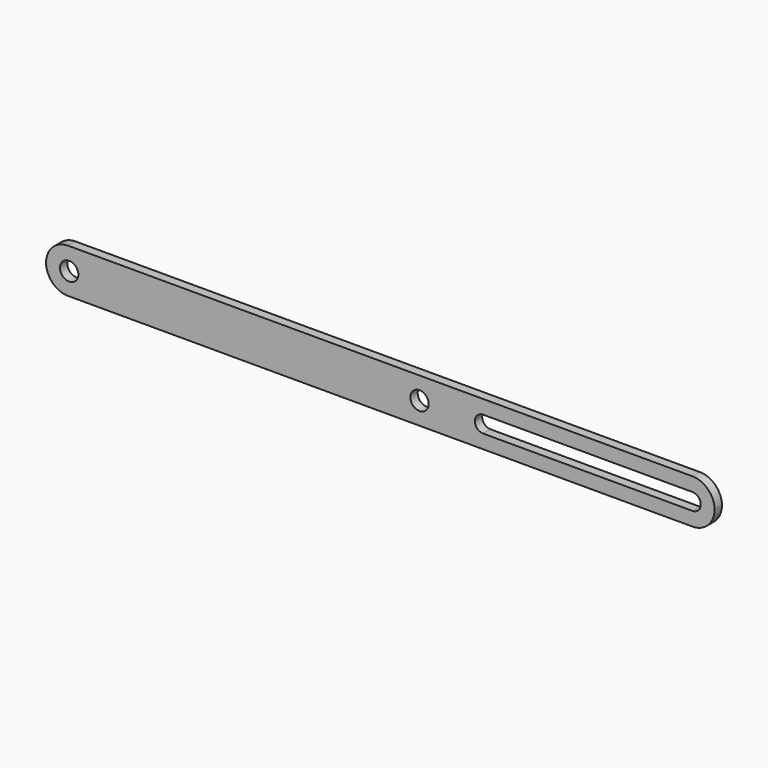
from build123d import *

# Parameters (mm, degrees)
F0_R     = 4.985
F1_DEPTH = 5


with BuildPart() as f1:
    # F0 (on Front) → F1 (new body)
    with BuildSketch(Plane.XZ):
        with BuildLine():
            Line((-220.5, -12), (118, -12))
            ThreePointArc((118, -12), (126.485281, -8.485281), (130, 0))
            ThreePointArc((130, 0), (126.485281, 8.485281), (118, 12))
            Line((118, 12), (-220.5, 12))
            ThreePointArc((-220.5, 12), (-228.985281, 8.485281), (-232.5, 0))
            ThreePointArc((-232.5, 0), (-228.985281, -8.485281), (-220.5, -12))
        make_face()
        with Locations((-220, 0)):
            Circle(F0_R, mode=Mode.SUBTRACT)
        with Locations((-30, 0)):
            Circle(F0_R, mode=Mode.SUBTRACT)
        with BuildLine():
            ThreePointArc((122.5, 0), (121.181981, -3.181981), (118, -4.5))
            Line((118, -4.5), (4.5, -4.5))
            ThreePointArc((4.5, -4.5), (1.318019, -3.181981), (0, 0))
            ThreePointArc((0, 0), (1.318019, 3.181981), (4.5, 4.5))
            Line((4.5, 4.5), (118, 4.5))
            ThreePointArc((118, 4.5), (121.181981, 3.181981), (122.5, 0))
        make_face(mode=Mode.SUBTRACT)
    extrude(amount=F1_DEPTH)


solid = f1.part
